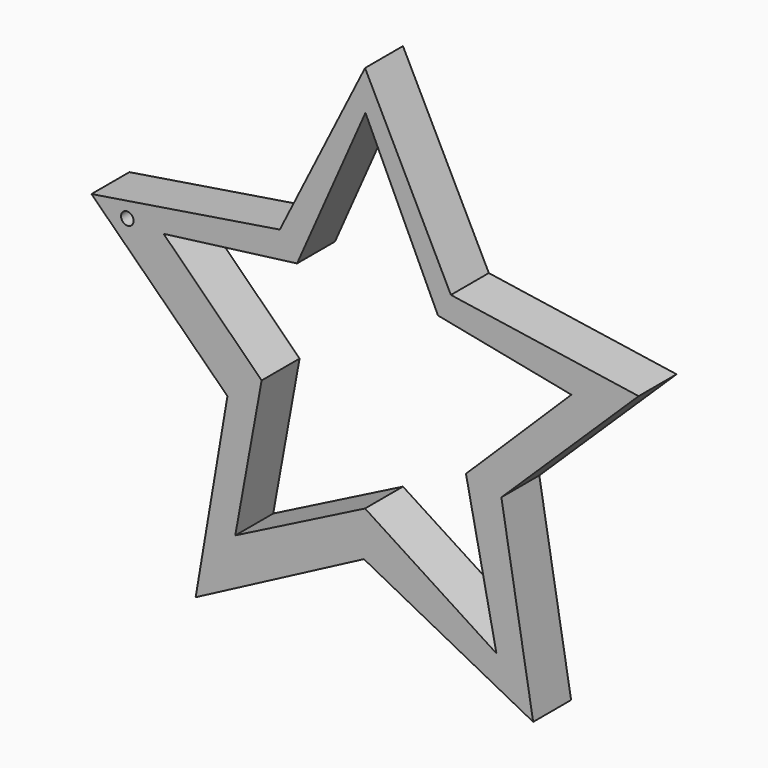
from build123d import *

# Parameters (mm, degrees)
F1_DEPTH = 12.7
F3_DEPTH = 25.4
F4_R     = 1.685949
F5_DEPTH = 25.4


with BuildPart() as f1:
    # F0 (on Front) → F1 (new body)
    with BuildSketch(Plane.XZ):
        Polygon((6.618203, -46.038546), (-16.379258, 0), (-39.209124, -45.537699), (-89.660898, -53.551219), (-53.232785, -89.361645), (-61.747152, -139.553732), (-16.671093, -115.906432), (28.655386, -139.553732), (20.14102, -89.361645), (56.902383, -53.551219), align=None)
    extrude(amount=F1_DEPTH)

    # F2 (on face) → F3 (cut)
    with BuildSketch(Plane.XZ.offset(12.7)):
        Polygon((3.150909, -52.012134), (-16.268918, -10.524325), (-34.585346, -52.012134), (-70.335478, -56.646414), (-44.074576, -82.686633), (-51.136333, -121.526286), (-16.379258, -103.871897), (18.819179, -126.60192), (10.654025, -86.879551), (38.901042, -59.073891), align=None)
    extrude(amount=-F3_DEPTH, mode=Mode.SUBTRACT)

    # F4 (on face) → F5 (cut)
    with BuildSketch(Plane.XZ.offset(12.7)):
        with Locations((-80.045395, -56.205053)):
            Circle(F4_R)
    extrude(amount=-F5_DEPTH, mode=Mode.SUBTRACT)


solid = f1.part
